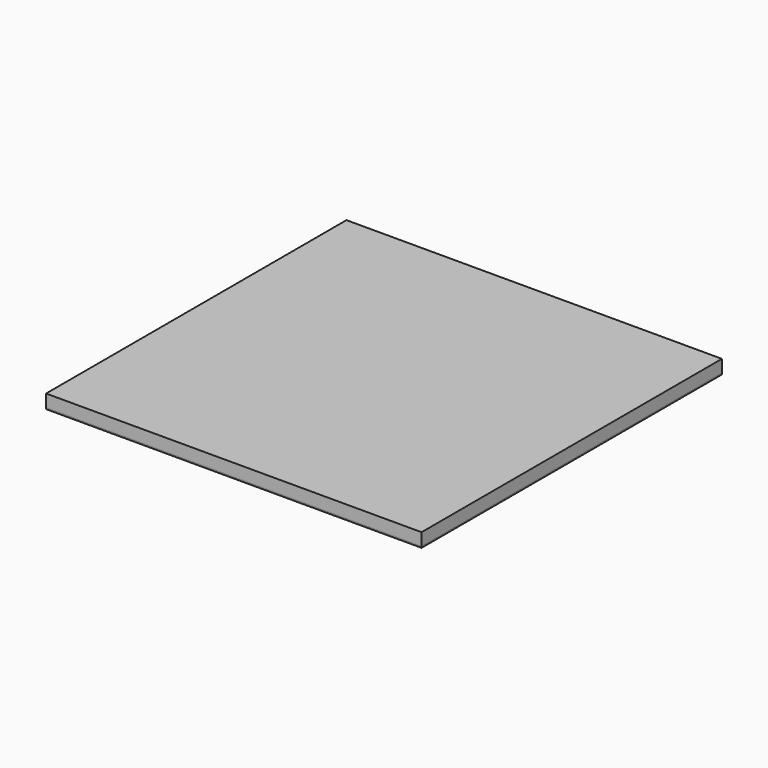
from build123d import *

# Parameters (mm, degrees)
F0_W     = 272
F0_H     = 272
F1_DEPTH = 10
F2_DEPTH = 1
F3_DEPTH = 1


with BuildPart() as f1:
    # F0 (on Top) → F1 (new body)
    with BuildSketch(Plane.XY):
        Rectangle(F0_W, F0_H)
    extrude(amount=F1_DEPTH)


with BuildPart() as f2:
    # F2 (new): a face of the model
    f2_faces = [f1.part.faces().sort_by_distance(p)[0] for p in [
        (0, 0, 0),
    ]]
    extrude(f2_faces, amount=F2_DEPTH)


with BuildPart() as f1_1:
    add(f1.part)

    # F3 (cut): a face of the model
    f3_faces = [f1_1.faces().sort_by_distance(p)[0] for p in [
        (0, 0, 10),
    ]]
    extrude(f3_faces, amount=-F3_DEPTH, mode=Mode.SUBTRACT)


solid = Compound([f2.part, f1_1.part])
